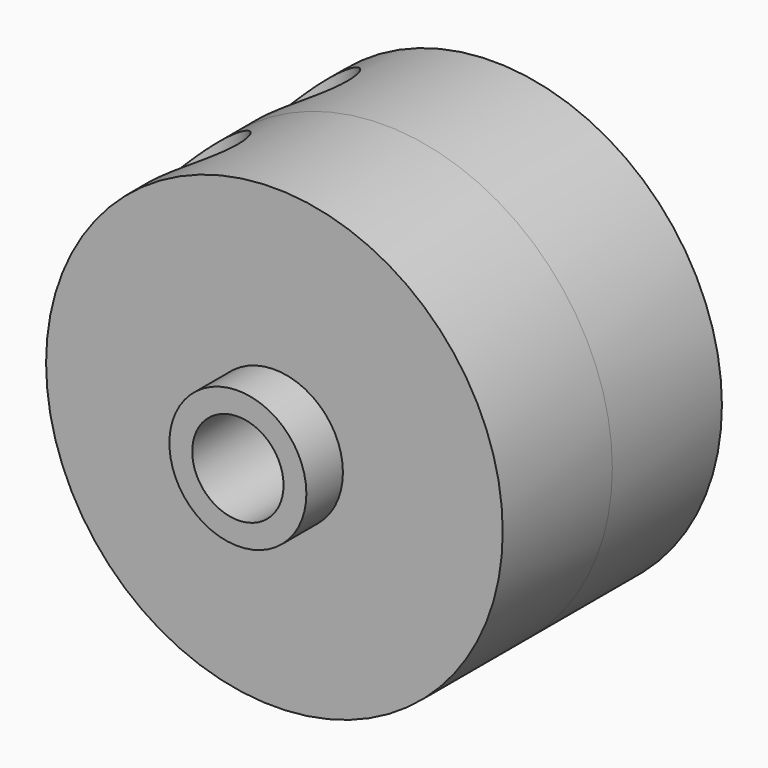
from build123d import *

# Parameters (mm, degrees)
F0_R        = 3
F0_R_2      = 2
F1_DEPTH    = 8
F2_R        = 10
F2_R_2      = 3
F3_DEPTH    = 6
F3_FACE_R   = 10
F3_FACE_R_2 = 3
F4_DEPTH    = 6
F5_R        = 2
F6_DEPTH    = 12.5


with BuildPart() as f1:
    # F0 (on Front) → F1 (new body, symmetric)
    with BuildSketch(Plane.XZ):
        Circle(F0_R)
        Circle(F0_R_2, mode=Mode.SUBTRACT)
    extrude(amount=F1_DEPTH, both=True)


with BuildPart() as f3:
    # F2 (on Front) → F3 (new body)
    with BuildSketch(Plane.XZ):
        Circle(F2_R)
        Circle(F2_R_2, mode=Mode.SUBTRACT)
    extrude(amount=F3_DEPTH)


with BuildPart() as f4:
    # F3_face (on face) → F4 (new body)
    with BuildSketch(Plane(origin=(0, 0, 0), x_dir=(1, 0, 0), z_dir=(0, 1, 0))):
        Circle(F3_FACE_R)
        Circle(F3_FACE_R_2, mode=Mode.SUBTRACT)
    extrude(amount=F4_DEPTH)


with BuildPart() as f6_tool:
    # F5 (on Top) → F6 (new body, symmetric)
    with BuildSketch(Plane.XY):
        with Locations((-6, -3)):
            Circle(F5_R)
        with Locations((-6, 3)):
            Circle(F5_R)
    extrude(amount=F6_DEPTH, both=True)


with BuildPart() as f3_1:
    add(f3.part)

    # F6: cut by f6_tool
    add(f6_tool.part, mode=Mode.SUBTRACT)


with BuildPart() as f4_1:
    add(f4.part)

    # F6: cut by f6_tool
    add(f6_tool.part, mode=Mode.SUBTRACT)


solid = Compound([f1.part, f3_1.part, f4_1.part])
